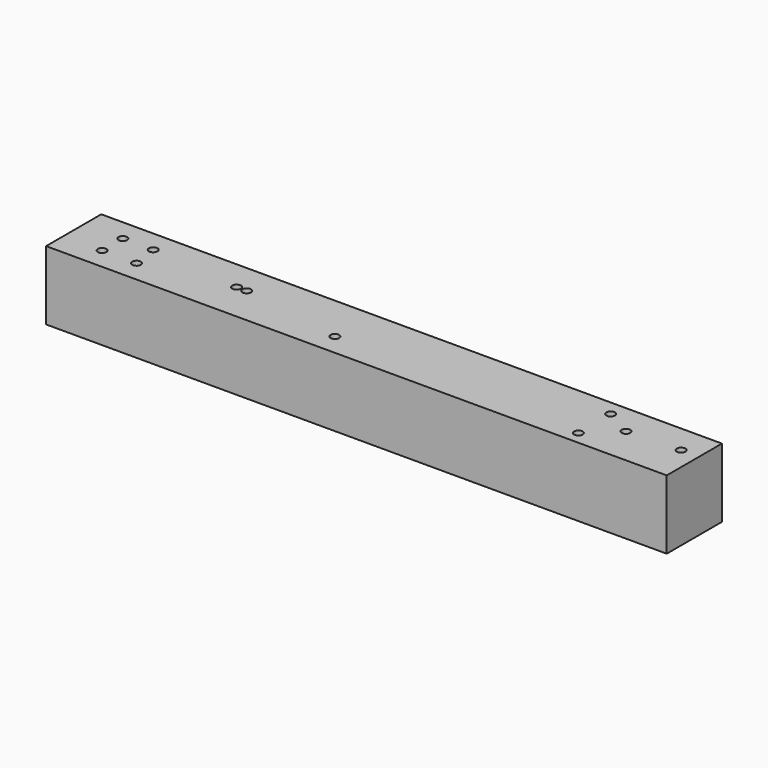
from build123d import *

# Parameters (mm, degrees)
F0_W     = 228.6
F0_H     = 25.4
F0_R     = 1.5875
F1_DEPTH = 25.4


with BuildPart() as f1:
    # F0 (on Top) → F1 (new body)
    with BuildSketch(Plane.XY):
        with Locations((-1.302153, -12.029166)):
            Rectangle(F0_W, F0_H)
        with Locations((-101.314653, -16.791666)):
            Circle(F0_R, mode=Mode.SUBTRACT)
        with Locations((-88.614653, -16.791666)):
            Circle(F0_R, mode=Mode.SUBTRACT)
        with Locations((-15.589653, -16.791666)):
            Circle(F0_R, mode=Mode.SUBTRACT)
        with Locations((76.659761, -19.974619)):
            Circle(F0_R, mode=Mode.SUBTRACT)
        with Locations((-101.314653, -7.266666)):
            Circle(F0_R, mode=Mode.SUBTRACT)
        with Locations((-90.110565, -7.266666)):
            Circle(F0_R, mode=Mode.SUBTRACT)
        with Locations((-56.864653, -10.441666)):
            Circle(F0_R, mode=Mode.SUBTRACT)
        with Locations((-53.140759, -10.441666)):
            Circle(F0_R, mode=Mode.SUBTRACT)
        with Locations((86.708084, -10.620523)):
            Circle(F0_R, mode=Mode.SUBTRACT)
        with Locations((106.393084, -9.857723)):
            Circle(F0_R, mode=Mode.SUBTRACT)
        with Locations((76.519288, -4.928185)):
            Circle(F0_R, mode=Mode.SUBTRACT)
    extrude(amount=F1_DEPTH)


solid = f1.part
